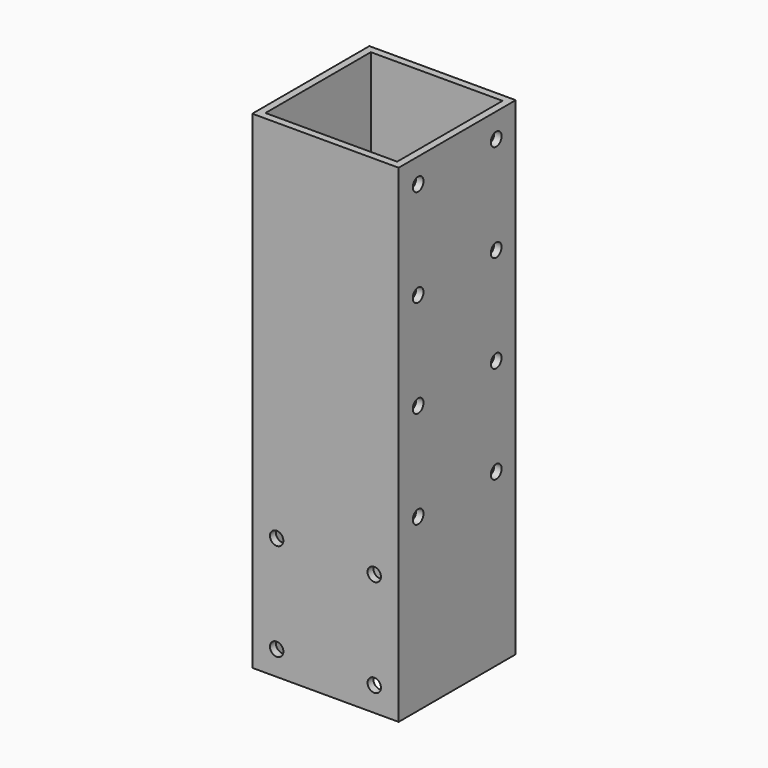
from build123d import *

# Parameters (mm, degrees)
SKETCH_W        = 60
SKETCH_H        = 60
SKETCH_W_2      = 54
SKETCH_H_2      = 54
PAD_DEPTH       = 200
SKETCH001_R     = 2.75
POCKET_DEPTH    = 3
SKETCH002_R     = 2.75
POCKET001_DEPTH = 3


with BuildPart() as part:
    # Sketch → Pad (new body)
    with BuildSketch(Plane.XY):
        Rectangle(SKETCH_W, SKETCH_H)
        Rectangle(SKETCH_W_2, SKETCH_H_2, mode=Mode.SUBTRACT)
    extrude(amount=PAD_DEPTH)

    # Sketch001 (on Face3 of Pad) → Pocket (cut)
    with BuildSketch(Plane.XZ.offset(30)):
        with Locations((-20, 50)):
            Circle(SKETCH001_R)
        with Locations((20, 50)):
            Circle(SKETCH001_R)
        with Locations((-20, 10)):
            Circle(SKETCH001_R)
        with Locations((20, 10)):
            Circle(SKETCH001_R)
    extrude(amount=-POCKET_DEPTH, mode=Mode.SUBTRACT)

    # Sketch002 (on Face3 of Pocket) → Pocket001 (cut)
    with BuildSketch(Plane.YZ.offset(30)):
        with Locations((-20, 190)):
            Circle(SKETCH002_R)
        with Locations((19.999999, 189.989386)):
            Circle(SKETCH002_R)
        with Locations((-20.010614, 150.000001)):
            Circle(SKETCH002_R)
        with Locations((19.989384, 149.989387)):
            Circle(SKETCH002_R)
        with Locations((-20, 110.000001)):
            Circle(SKETCH002_R)
        with Locations((20, 110.000001)):
            Circle(SKETCH002_R)
        with Locations((-20, 70.000001)):
            Circle(SKETCH002_R)
        with Locations((20, 70.000001)):
            Circle(SKETCH002_R)
    extrude(amount=-POCKET001_DEPTH, mode=Mode.SUBTRACT)


solid = part.part
